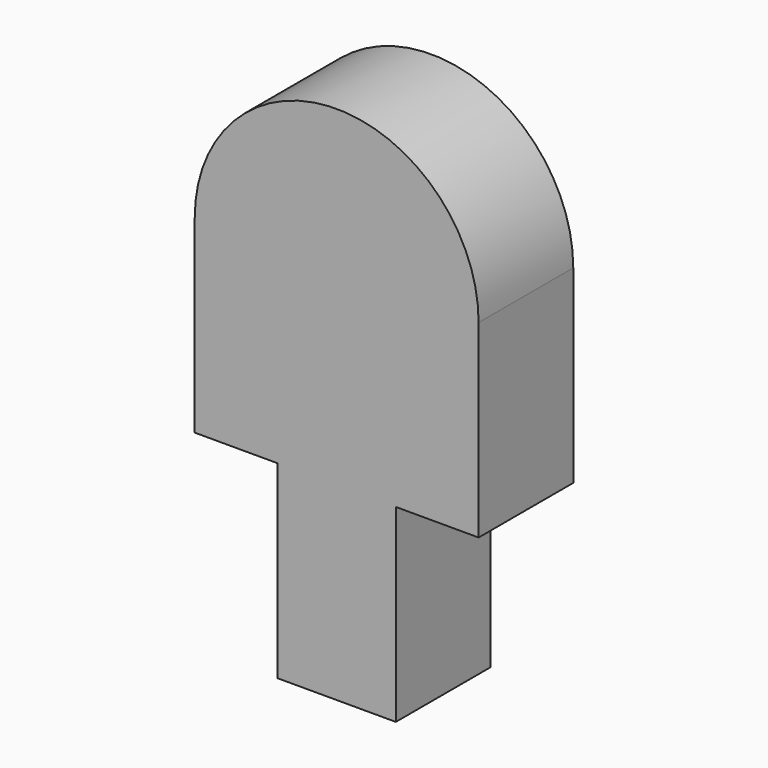
from build123d import *

# Parameters (mm, degrees)
F0_W     = 25
F0_H     = 40
F1_DEPTH = 12.5


with BuildPart() as f1:
    # F0 (on Front) → F1 (new body, symmetric)
    with BuildSketch(Plane.XZ):
        with BuildLine():
            ThreePointArc((30.943819, 17.62255), (0.943819, 47.62255), (-29.056181, 17.62255))
            Line((-29.056181, 17.62255), (30.943819, 17.62255))
        make_face()
        Polygon((30.943819, 17.62255), (-29.056181, 17.62255), (-29.056181, -22.37745), (-11.556181, -22.37745), (13.443819, -22.37745), (30.943819, -22.37745), align=None)
        with Locations((0.943819, -42.37745)):
            Rectangle(F0_W, F0_H)
    extrude(amount=F1_DEPTH, both=True)


solid = f1.part
